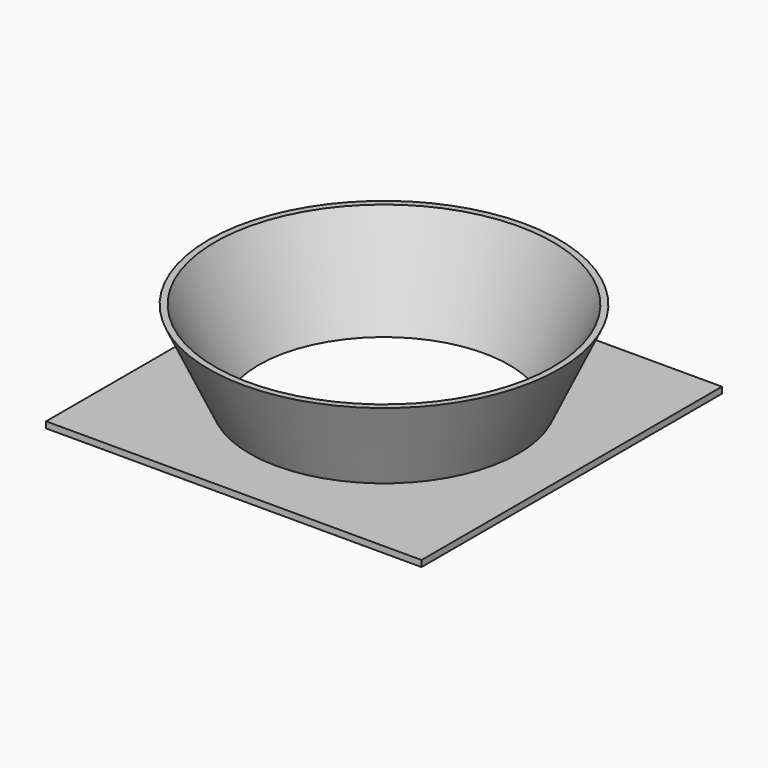
from build123d import *

# Parameters (mm, degrees)
SKETCH_W  = 60
SKETCH_H  = 60
SKETCH_R  = 21
PAD_DEPTH = 1


with BuildPart() as pad:
    # Sketch → Pad (new body)
    with BuildSketch(Plane.XY):
        Rectangle(SKETCH_W, SKETCH_H)
        Circle(SKETCH_R, mode=Mode.SUBTRACT)
    extrude(amount=PAD_DEPTH)


with BuildPart() as cone:
    # Cone → Cone (revolve)
    with BuildSketch(Plane.XZ):
        Polygon((0, 0), (20, 0), (27, 15), (0, 15), align=None)
    revolve(axis=Axis((0, 0, 0), (0, 0, 1)))


with BuildPart() as fusion:
    # Cone001 → Cone001 (revolve)
    with BuildSketch(Plane.XZ):
        Polygon((0, 0), (21, 0), (28, 15), (0, 15), align=None)
    revolve(axis=Axis((0, 0, 0), (0, 0, 1)))

    # Cut: cut Cone
    add(cone.part, mode=Mode.SUBTRACT)

    # Fusion: union Pad
    add(pad.part)


solid = fusion.part
